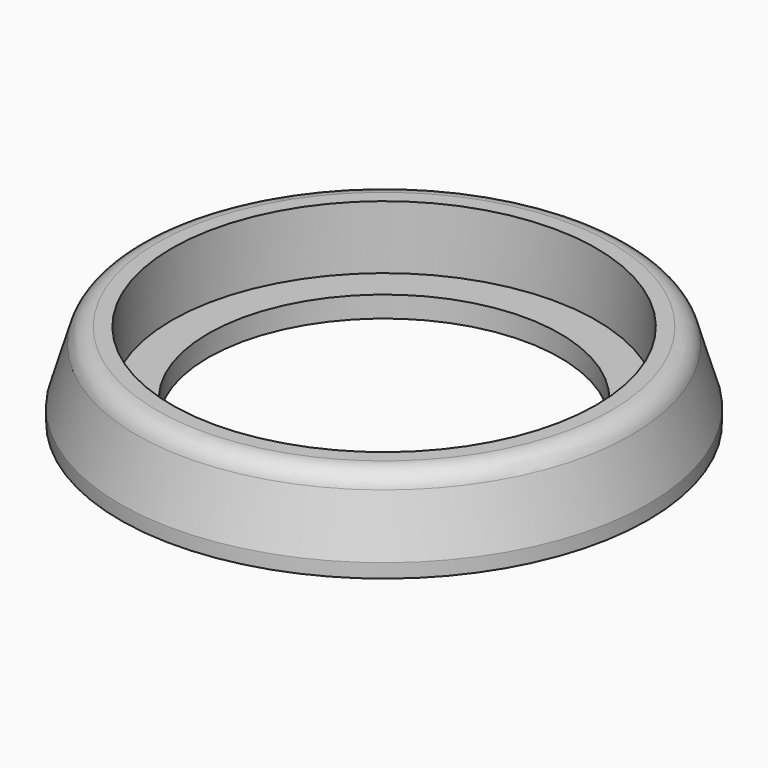
from build123d import *

# Parameters (mm, degrees)
F0_R     = 37.5
F0_R_2   = 30.15
F0_R_3   = 25
F1_DEPTH = 3
F2_DEPTH = 12
F3_SIZE2 = 10
F3_SIZE  = 3
F4_R     = 3


with BuildPart() as f1:
    # F0 (on Top) → F1 (new body)
    with BuildSketch(Plane.XY):
        Circle(F0_R)
        Circle(F0_R_2, mode=Mode.SUBTRACT)
        Circle(F0_R_2)
        Circle(F0_R_3, mode=Mode.SUBTRACT)
    extrude(amount=F1_DEPTH)

    # F0 (on Top) → F2 (join)
    with BuildSketch(Plane.XY):
        Circle(F0_R)
        Circle(F0_R_2, mode=Mode.SUBTRACT)
    extrude(amount=F2_DEPTH)

    # F3
    f3_edges = [f1.edges().sort_by_distance(p)[0] for p in [
        (-37.5, 0, 12),
    ]]
    f3_side = f1.faces().sort_by_distance((-36.43934, 0, 12))[0]
    chamfer(f3_edges, length=F3_SIZE, length2=F3_SIZE2, reference=f3_side)

    # F4
    f4_edges = [f1.edges().sort_by_distance(p)[0] for p in [
        (-34.5, 0, 12),
    ]]
    fillet(f4_edges, radius=F4_R)


solid = f1.part
